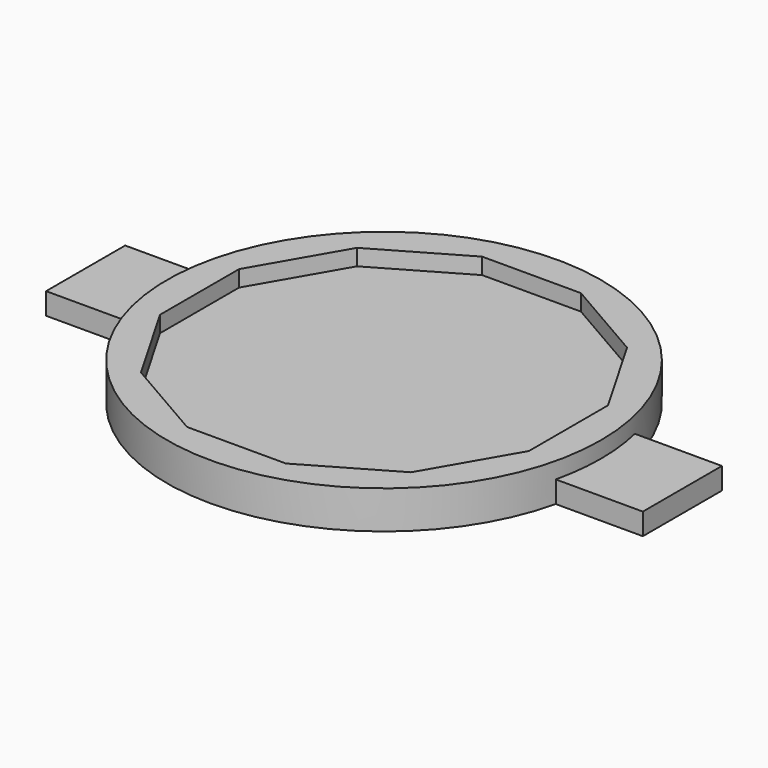
from build123d import *

# Parameters (mm, degrees)
F0_R     = 20
F1_DEPTH = 3.5
F3_R     = 20
F4_DEPTH = 2
F5_W     = 55
F5_H     = 9.110272
F6_DEPTH = 2


with BuildPart() as f1:
    # F0 (on Top) → F1 (new body)
    with BuildSketch(Plane.XY):
        Circle(F0_R)
        Polygon((-12.444864, 12.444864), (-4.555136, 17), (4.555136, 17), (12.444864, 12.444864), (17, 4.555136), (17, -4.555136), (12.444864, -12.444864), (4.555136, -17), (-4.555136, -17), (-12.444864, -12.444864), (-17, -4.555136), (-17, 4.555136), align=None, mode=Mode.SUBTRACT)
    extrude(amount=F1_DEPTH)

    # F3 (on Top) → F4 (join)
    with BuildSketch(Plane.XY):
        Circle(F3_R)
    extrude(amount=F4_DEPTH)

    # F5 (on Top) → F6 (join)
    with BuildSketch(Plane.XY):
        Rectangle(F5_W, F5_H)
    extrude(amount=F6_DEPTH)


solid = f1.part
